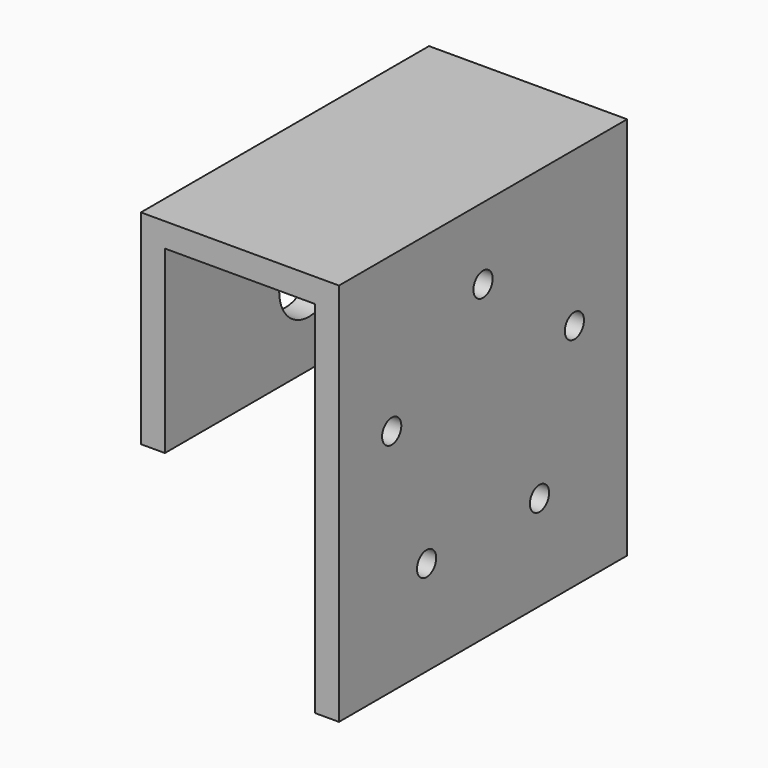
from build123d import *

# Parameters (mm, degrees)
F1_DEPTH = 300
F2_R     = 31
F3_DEPTH = 20
F4_R     = 10
F5_DEPTH = 20


with BuildPart() as f1:
    # F0 (on Front) → F1 (new body)
    with BuildSketch(Plane.XZ):
        Polygon((165, 0), (0, 0), (0, -170), (20, -170), (20, -20), (145, -20), (145, -320), (165, -320), (165, -20), align=None)
    extrude(amount=F1_DEPTH)

    # F2 (on face) → F3 (cut, through all)
    with BuildSketch(Plane(origin=(0, 0, 0), x_dir=(0, -1, 0), z_dir=(-1, 0, 0))):
        with Locations((150, -100)):
            Circle(F2_R)
    extrude(amount=-F3_DEPTH, mode=Mode.SUBTRACT)

    # F4 (on face) → F5 (cut, through all)
    with BuildSketch(Plane.YZ.offset(165)):
        with Locations((-150, -60)):
            Circle(F4_R)
        with Locations((-245.105652, -129.098301)):
            Circle(F4_R)
        with Locations((-208.778525, -240.901699)):
            Circle(F4_R)
        with Locations((-91.221475, -240.901699)):
            Circle(F4_R)
        with Locations((-54.894348, -129.098301)):
            Circle(F4_R)
    extrude(amount=-F5_DEPTH, mode=Mode.SUBTRACT)


solid = f1.part
